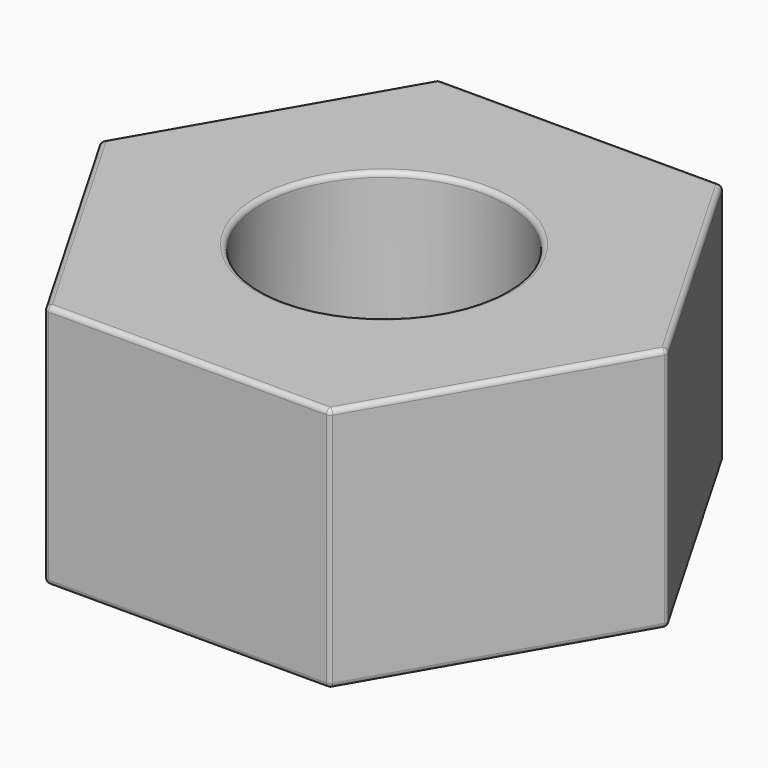
from build123d import *

# Parameters (mm, degrees)
F0_R     = 2.5
F1_DEPTH = 5
F2_R     = 0.1


with BuildPart() as f1:
    # F0 (on Top) → F1 (new body)
    with BuildSketch(Plane.XY):
        Polygon((5.773503, 0), (2.886751, 5), (-2.886751, 5), (-5.773503, 0), (-2.886751, -5), (2.886751, -5), align=None)
        Circle(F0_R, mode=Mode.SUBTRACT)
    extrude(amount=F1_DEPTH)

    # F2
    f2_edges = [f1.edges().sort_by_distance(p)[0] for p in [
        (2.886751, -5, 2.5),
        (5.773503, 0, 2.5),
        (4.330127, -2.5, 0),
        (4.330127, -2.5, 5),
        (-2.886751, -5, 2.5),
        (0, -5, 0),
        (0, -5, 5),
        (4.330127, 2.5, 5),
        (0, 5, 5),
        (-4.330127, 2.5, 5),
        (-4.330127, -2.5, 5),
        (-2.5, 0, 5),
        (2.886751, 5, 2.5),
        (4.330127, 2.5, 0),
        (-5.773503, 0, 2.5),
        (-4.330127, -2.5, 0),
        (-2.886751, 5, 2.5),
        (-4.330127, 2.5, 0),
        (0, 5, 0),
        (-2.5, 0, 0),
    ]]
    fillet(f2_edges, radius=F2_R)


solid = f1.part
